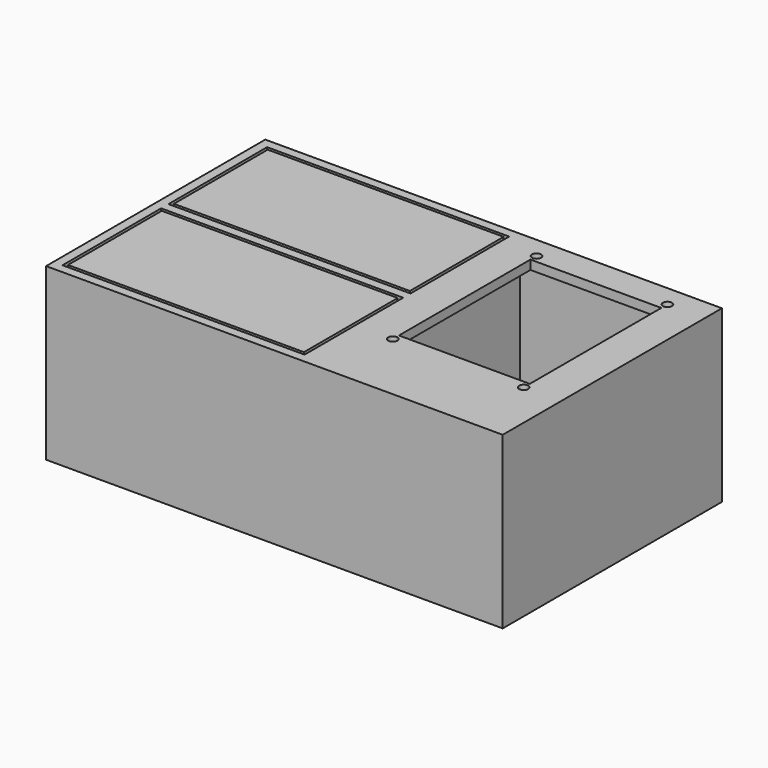
from build123d import *

# Parameters (mm, degrees)
F0_W     = 155
F0_H     = 77
F1_DEPTH = 6
F0_W_2   = 300
F0_H_2   = 180
F0_W_3   = 159
F0_H_3   = 81
F0_R     = 3
F0_W_4   = 86
F0_H_4   = 108
F2_W     = 300
F2_H     = 180
F2_W_2   = 6
F2_H_2   = 81
F2_H_3   = 6
F3_DEPTH = 100
F4_W     = 300
F4_H     = 180
F5_DEPTH = 6


with BuildPart() as f1:
    # F0 (on Top) → F1 (new body)
    with BuildSketch(Plane.XY):
        with Locations((-263.6611738205, 43.5)):
            Rectangle(F0_W, F0_H)
    extrude(amount=F1_DEPTH)


with BuildPart() as f1b:
    # F0 (on Top) → F1, piece 2 (new body)
    with BuildSketch(Plane.XY):
        with Locations((-263.6611738205, -43.5)):
            Rectangle(F0_W, F0_H)
    extrude(amount=F1_DEPTH)


with BuildPart() as f1c:
    # F0 (on Top) → F1, piece 3 (new body)
    with BuildSketch(Plane.XY):
        with Locations((-199.1611738205, 0)):
            Rectangle(F0_W_2, F0_H_2)
        with Locations((-263.6611738205, -43.5)):
            Rectangle(F0_W_3, F0_H_3, mode=Mode.SUBTRACT)
        with Locations((-159.6611738205, -42.1260297298)):
            Circle(F0_R, mode=Mode.SUBTRACT)
        with Locations((-73.6611738205, -42.1260297298)):
            Circle(F0_R, mode=Mode.SUBTRACT)
        with Locations((-263.6611738205, 43.5)):
            Rectangle(F0_W_3, F0_H_3, mode=Mode.SUBTRACT)
        with Locations((-116.6611738205, 16.8739702702)):
            Rectangle(F0_W_4, F0_H_4, mode=Mode.SUBTRACT)
        with Locations((-159.6611738205, 75.8739702702)):
            Circle(F0_R, mode=Mode.SUBTRACT)
        with Locations((-73.6611738205, 75.8739702702)):
            Circle(F0_R, mode=Mode.SUBTRACT)
    extrude(amount=F1_DEPTH)

    # F2 (on face) → F3 (join)
    with BuildSketch(Plane(origin=(0, 0, 0), x_dir=(1, 0, 0), z_dir=(0, 0, -1))):
        with Locations((-199.1611738205, 0)):
            Rectangle(F2_W, F2_H)
        Polygon((-343.1611738205, -84), (-343.1611738205, -3), (-343.1611738205, 3), (-343.1611738205, 84), (-184.1611738205, 84), (-183.1611738205, 84), (-177.1611738205, 84), (-55.1611738205, 84), (-55.1611738205, -84), (-177.1611738205, -84), (-183.1611738205, -84), (-184.1611738205, -84), align=None, mode=Mode.SUBTRACT)
        Polygon((-343.1611738205, -3), (-184.1611738205, -3), (-183.1611738205, -3), (-183.1611738205, 3), (-184.1611738205, 3), (-343.1611738205, 3), align=None)
        with Locations((-180.1611738205, 43.5)):
            Rectangle(F2_W_2, F2_H_2)
        with Locations((-180.1611738205, -43.5)):
            Rectangle(F2_W_2, F2_H_2)
        with Locations((-180.1611738205, 0)):
            Rectangle(F2_W_2, F2_H_3)
    extrude(amount=F3_DEPTH)

    # F4 (on face) → F5 (join)
    with BuildSketch(Plane(origin=(0, 0, -100), x_dir=(1, 0, 0), z_dir=(0, 0, -1))):
        with Locations((-199.1611738205, 0)):
            Rectangle(F4_W, F4_H)
        with BuildLine():
            ThreePointArc((-69.3573262432, 78), (-62.6082595499, 80.7955549577), (-58.1611738205, 75))
            ThreePointArc((-58.1611738205, 75), (-62.6082595499, 69.2044450423), (-69.3573262432, 72))
            Line((-69.3573262432, 72), (-72.1611738205, 72))
            ThreePointArc((-72.1611738205, 72), (-74.2824941641, 72.8786796564), (-75.1611738205, 75))
            ThreePointArc((-75.1611738205, 75), (-74.2824941641, 77.1213203436), (-72.1611738205, 78))
            Line((-72.1611738205, 78), (-69.3573262432, 78))
        make_face(mode=Mode.SUBTRACT)
    extrude(amount=F5_DEPTH)


solid = Compound([f1.part, f1b.part, f1c.part])
